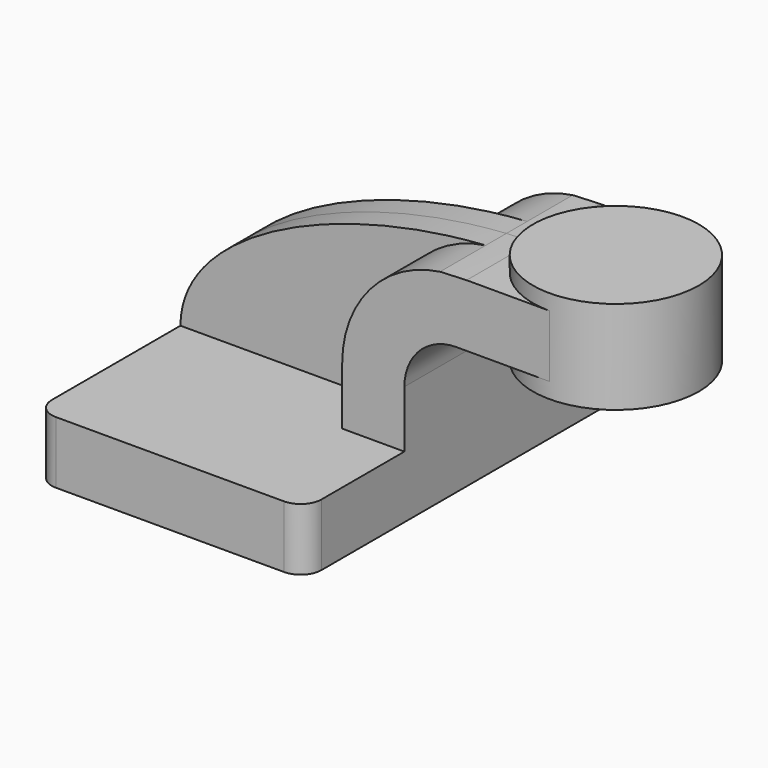
from build123d import *

# Parameters (mm, degrees)
F1_DEPTH = 63.5
F2_DEPTH = 25.4
F3_DEPTH = 7.9375
F0_W     = 25.4
F0_H     = 19.05
F4_DEPTH = 25.4
F6_R     = 6.35


with BuildPart() as f1:
    # F0 (on Front) → F1 (new body, symmetric)
    with BuildSketch(Plane.XZ):
        Polygon((-41.275, 9.525), (-41.275, -9.525), (41.275, -9.525), (41.275, 9.525), (22.225, 9.525), align=None)
    extrude(amount=F1_DEPTH, both=True)

    # F0 (on Front) → F2 (join, symmetric)
    with BuildSketch(Plane.XZ):
        with BuildLine():
            Line((22.225, 9.525), (41.275, 9.525))
            Line((41.275, 9.525), (41.275, 27.0002))
            ThreePointArc((41.275, 27.0002), (45.92468, 38.22552), (57.15, 42.8752))
            Line((57.15, 42.8752), (60.325, 42.8752))
            Line((60.325, 42.8752), (60.325, 61.9252))
            add(Edge.make_bspline(
                [(52.205815, 61.573465), (54.9122, 61.753284), (57.621454, 61.871383), (60.325, 61.9252)],
                knots=[108.111477, 108.111477, 108.111477, 108.111477, 114.316845, 114.316845, 114.316845, 114.316845], degree=3))
            ThreePointArc((52.205815, 61.573465), (30.764101, 49.881196), (22.225, 27.0002))
            Line((22.225, 27.0002), (22.225, 9.525))
        make_face()
    extrude(amount=F2_DEPTH, both=True)

    # F0 (on Front) → F3 (join, symmetric)
    with BuildSketch(Plane.XZ):
        with BuildLine():
            add(Edge.make_bspline(
                [(-41.275, 9.525), (-41.22588, 36.57363), (5.054491, 58.440611), (52.205815, 61.573465)],
                knots=[0, 0, 0, 0, 108.111477, 108.111477, 108.111477, 108.111477], degree=3))
            Line((-41.275, 9.525), (22.225, 9.525))
            Line((22.225, 9.525), (22.225, 27.0002))
            ThreePointArc((22.225, 27.0002), (30.764101, 49.881196), (52.205815, 61.573465))
        make_face()
    extrude(amount=F3_DEPTH, both=True)

    # F0 (on Front) → F4 (join, symmetric)
    with BuildSketch(Plane.XZ):
        with Locations((73.025, 52.4002)):
            Rectangle(F0_W, F0_H)
    extrude(amount=F4_DEPTH, both=True)

    # F0 (on Front) → F5 (revolve)
    with BuildSketch(Plane.XZ):
        Polygon((85.725, 66.675), (85.725, 61.9252), (85.725, 42.8752), (85.725, 38.1), (111.125, 38.1), (111.125, 66.675), align=None)
    revolve(axis=Axis((85.725, 0, 52.3875), (0, 0, 1)))

    # F6
    f6_edges = [f1.edges().sort_by_distance(p)[0] for p in [
        (41.275, -63.5, 0),
        (-41.275, -63.5, 0),
        (41.275, 63.5, 0),
        (-41.275, 63.5, 0),
    ]]
    fillet(f6_edges, radius=F6_R)


solid = f1.part
